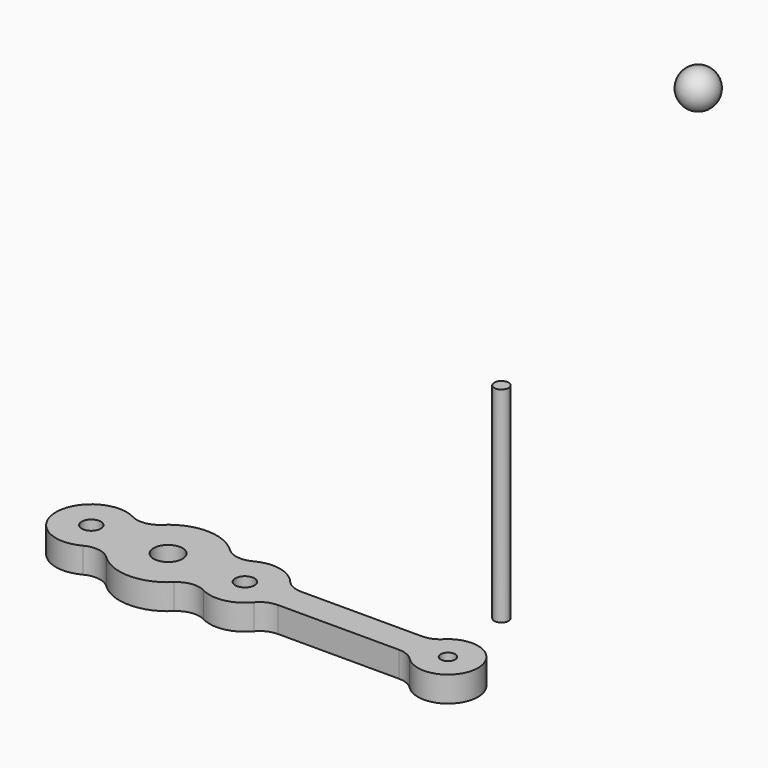
from build123d import *

# Parameters (mm, degrees)
F3_R     = 1.5875
F4_DEPTH = 45
F5_R     = 3.175
F5_R_2   = 2.1
F5_R_3   = 1.5875
F6_DEPTH = 5.6


with BuildPart() as f2:
    # F1 (on Right) → F2 (revolve)
    with BuildSketch(Plane.YZ):
        with BuildLine():
            Line((28.5856276751, 98.9358499646), (28.5856276751, 103.0008499646))
            ThreePointArc((28.5856276751, 103.0008499646), (24.6021447583, 99.7458430831), (26.9981276751, 95.1936489078))
            Line((26.9981276751, 95.1936489078), (26.9981276751, 98.9358499646))
            Line((26.9981276751, 98.9358499646), (28.5856276751, 98.9358499646))
        make_face()
    revolve(axis=Axis((0, 28.5856276751, 100.9683499646), (0, 0, 1)))


with BuildPart() as f4:
    # F3 (on Top) → F4 (new body)
    with BuildSketch(Plane.XY):
        with Locations((-22.1857912838, 2.3767193779)):
            Circle(F3_R)
    extrude(amount=F4_DEPTH)


with BuildPart() as f6:
    # F5 (on Top) → F6 (new body)
    with BuildSketch(Plane.XY):
        with BuildLine():
            ThreePointArc((-61.8464328335, -16.0568153762), (-64.8836940912, -16.5852120292), (-67.653551355, -15.2316797214))
            ThreePointArc((-67.653551355, -15.2316797214), (-75.0689274046, -12.2357306421), (-82.4843034542, -15.2316797214))
            ThreePointArc((-82.4843034542, -15.2316797214), (-85.2541607181, -16.5852120292), (-88.2914219758, -16.0568153762))
            ThreePointArc((-88.2914219758, -16.0568153762), (-99.6589274046, -22.9107306421), (-88.2914219758, -29.764645908))
            ThreePointArc((-88.2914219758, -29.764645908), (-85.2541607181, -29.236249255), (-82.4843034542, -30.5897815628))
            ThreePointArc((-82.4843034542, -30.5897815628), (-75.0689274046, -33.5857306421), (-67.653551355, -30.5897815628))
            ThreePointArc((-67.653551355, -30.5897815628), (-64.8836940912, -29.236249255), (-61.8464328335, -29.764645908))
            ThreePointArc((-61.8464328335, -29.764645908), (-56.7305614716, -30.5145059893), (-52.2816280335, -27.8798482891))
            ThreePointArc((-52.2816280335, -27.8798482891), (-50.5625119947, -26.5564143711), (-48.4446606973, -26.0857306421))
            Line((-48.4446606973, -26.0857306421), (-21.9010849317, -26.0857306421))
            ThreePointArc((-21.9010849317, -26.0857306421), (-19.9824318173, -26.4685052603), (-18.3575433882, -27.5582225515))
            ThreePointArc((-18.3575433882, -27.5582225515), (-7.1014274046, -22.9107306421), (-18.3575433882, -18.2632387327))
            ThreePointArc((-18.3575433882, -18.2632387327), (-19.9824318173, -19.3529560239), (-21.9010849317, -19.7357306421))
            Line((-21.9010849317, -19.7357306421), (-48.4446606973, -19.7357306421))
            ThreePointArc((-48.4446606973, -19.7357306421), (-50.5625119947, -19.265046913), (-52.2816280335, -17.941612995))
            ThreePointArc((-52.2816280335, -17.941612995), (-56.7305614716, -15.3069552949), (-61.8464328335, -16.0568153762))
        make_face()
        with Locations((-75.0689274046, -22.9107306421)):
            Circle(F5_R, mode=Mode.SUBTRACT)
        with Locations((-91.9089274046, -22.9107306421)):
            Circle(F5_R_2, mode=Mode.SUBTRACT)
        with Locations((-58.2289274046, -22.9107306421)):
            Circle(F5_R_2, mode=Mode.SUBTRACT)
        with Locations((-13.6889274046, -22.9107306421)):
            Circle(F5_R_3, mode=Mode.SUBTRACT)
    extrude(amount=F6_DEPTH)


solid = Compound([f2.part, f4.part, f6.part])
